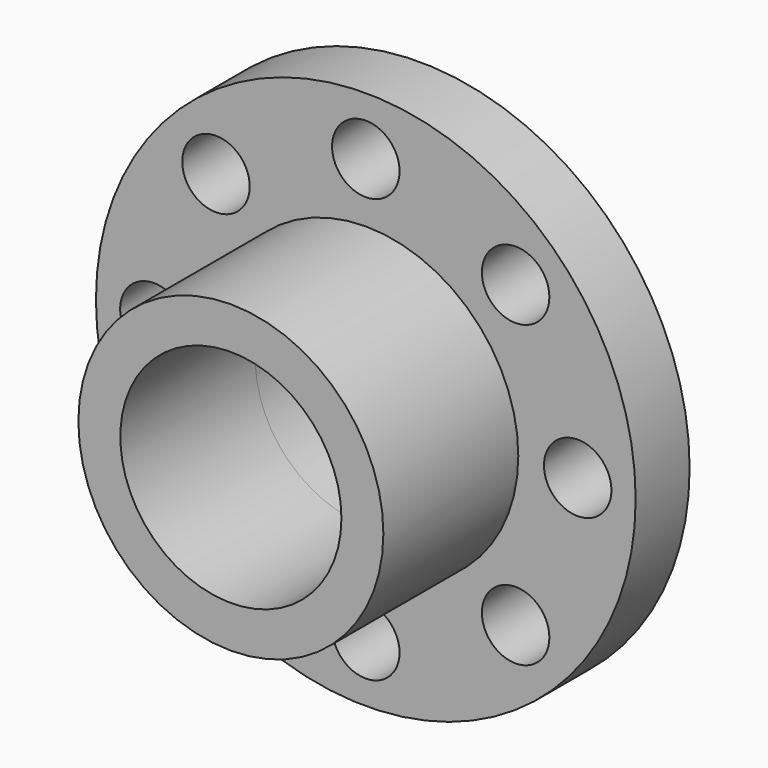
from build123d import *

# Parameters (mm, degrees)
F0_R      = 40
F1_DEPTH  = 10
F2_R      = 22.604582
F2_R_2    = 16.387311
F3_DEPTH  = 25
F3_FACE_R = 16.387311
F4_DEPTH  = 25
F5_R      = 5
F6_DEPTH  = 25


with BuildPart() as f1:
    # F0 (on Front) → F1 (new body)
    with BuildSketch(Plane.XZ):
        Circle(F0_R)
    extrude(amount=F1_DEPTH)

    # F2 (on face) → F3 (join)
    with BuildSketch(Plane.XZ.offset(10)):
        Circle(F2_R)
        Circle(F2_R_2, mode=Mode.SUBTRACT)
    extrude(amount=F3_DEPTH)

    # F3_face (on face) → F4 (cut)
    with BuildSketch(Plane.XZ.offset(10)):
        Circle(F3_FACE_R)
    extrude(amount=-F4_DEPTH, mode=Mode.SUBTRACT)

    # F5 (on face) → F6 (cut)
    with BuildSketch(Plane.XZ.offset(10)):
        with Locations((0, 31.406611)):
            Circle(F5_R)
        with Locations((-22.207828, 22.207828)):
            Circle(F5_R)
        with Locations((-31.406611, 0)):
            Circle(F5_R)
        with Locations((-22.207828, -22.207828)):
            Circle(F5_R)
        with Locations((0, -31.406611)):
            Circle(F5_R)
        with Locations((22.207828, -22.207828)):
            Circle(F5_R)
        with Locations((31.406611, 0)):
            Circle(F5_R)
        with Locations((22.207828, 22.207828)):
            Circle(F5_R)
    extrude(amount=-F6_DEPTH, mode=Mode.SUBTRACT)


solid = f1.part
